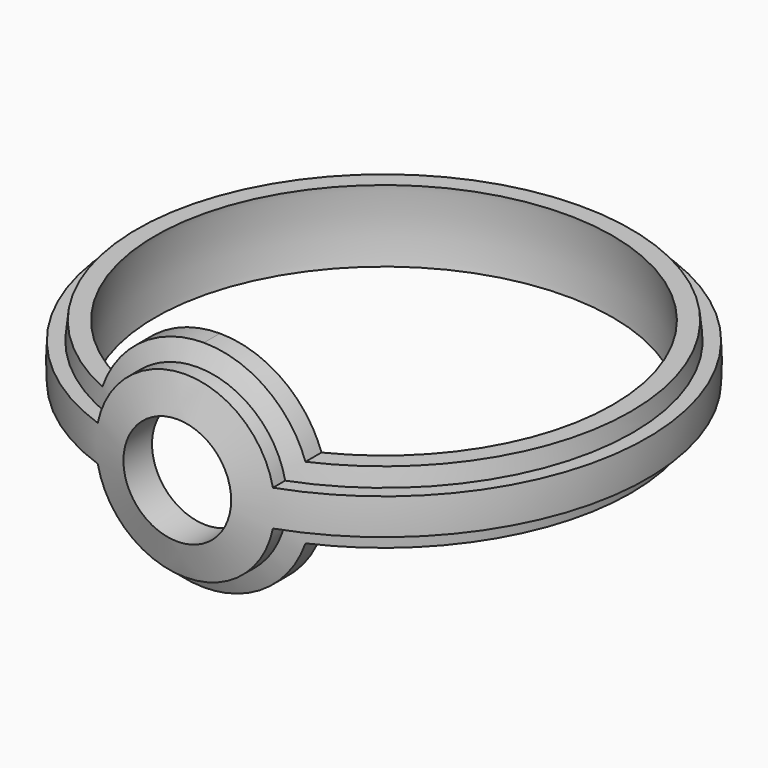
from build123d import *

# Parameters (mm, degrees)
F3_DEPTH       = 34.751
F3_DEPTH_BACK  = 34.751
F5_ANGLE_BACK  = 30
F5_ANGLE       = 60
F9_R           = 12.45
F10_DEPTH      = 8
F13_R          = 7.5
F14_DEPTH      = 10
F14_DEPTH_BACK = 10


with BuildPart() as f1:
    # F0 (on Front) → F1 (revolve)
    with BuildSketch(Plane.XZ):
        with BuildLine():
            Line((0, -32.25), (0, -34.75))
            ThreePointArc((0, -34.75), (34.75, 0), (0, 34.75))
            Line((0, 34.75), (0, 32.25))
            ThreePointArc((0, 32.25), (32.25, 0), (0, -32.25))
        make_face()
    revolve(axis=Axis((0, 0, 0), (0, 0, 1)))

    # F2 (on Front) → F3 (cut, two sides)
    with BuildSketch(Plane.XZ) as f3_sk:
        with BuildLine():
            ThreePointArc((0, 15), (8.6602540378, 12.2474487139), (14.1421356237, 5))
            Line((14.1421356237, 5), (47.8319227695, 5))
            Line((47.8319227695, 5), (47.8319227695, 37.9324257374))
            Line((47.8319227695, 37.9324257374), (0, 37.9324257374))
            Line((0, 37.9324257374), (0, 15))
        make_face()
        with BuildLine():
            ThreePointArc((-14.1421356237, 5), (-8.6602540378, 12.2474487139), (0, 15))
            Line((0, 15), (0, 37.9324257374))
            Line((0, 37.9324257374), (-47.8319227695, 37.9324257374))
            Line((-47.8319227695, 37.9324257374), (-47.8319227695, 5))
            Line((-47.8319227695, 5), (-14.1421356237, 5))
        make_face()
        with BuildLine():
            Line((-14.1421356237, -5), (-47.8319227695, -5))
            Line((-47.8319227695, -5), (-47.8319227695, -37.9324257374))
            Line((-47.8319227695, -37.9324257374), (0, -37.9324257374))
            Line((0, -37.9324257374), (47.8319227695, -37.9324257374))
            Line((47.8319227695, -37.9324257374), (47.8319227695, -5))
            Line((47.8319227695, -5), (14.1421356237, -5))
            ThreePointArc((14.1421356237, -5), (8.6602540378, -12.2474487139), (0, -15))
            ThreePointArc((0, -15), (-8.6602540378, -12.2474487139), (-14.1421356237, -5))
        make_face()
    extrude(amount=-F3_DEPTH, mode=Mode.SUBTRACT)
    extrude(f3_sk.sketch, amount=F3_DEPTH_BACK, mode=Mode.SUBTRACT)

    # F4 (on Right) → F5 (revolve, cut)
    with BuildSketch(Plane.YZ, mode=Mode.PRIVATE) as f5_sk:
        Polygon((28.549299466, 5), (31.3458529953, 5), (38.3678488433, 5), (38.3678488433, 15), (31.3458529953, 15), (28.549299466, 15), align=None)
        Polygon((38.3678488433, -5), (31.3458529953, -5), (28.549299466, -5), (28.549299466, -15), (31.3458529953, -15), (38.3678488433, -15), align=None)
    revolve(f5_sk.sketch.rotate(Axis((0, 0, 13.6671056971), (0, 0, 1)), -F5_ANGLE_BACK), axis=Axis((0, 0, 13.6671056971), (0, 0, 1)), revolution_arc=F5_ANGLE, mode=Mode.SUBTRACT)

    # F6 (on Front) → F8 (revolve)
    with BuildSketch(Plane.XZ):
        Polygon((36.75, 0), (36.75, 2.5), (33.5848033428, 2.5), (33.5848033428, 0), (33.5848033428, -2.5), (36.75, -2.5), align=None)
    revolve(axis=Axis((0, 0, 0), (0, 0, 1)))

    # F9 (on offset) → F10 (join)
    with BuildSketch(Plane.XZ.offset(31)):
        Circle(F9_R)
    extrude(amount=F10_DEPTH)

    # F11 (on Right) → F12 (revolve, cut)
    with BuildSketch(Plane.YZ):
        with BuildLine():
            ThreePointArc((0, -36.75), (-36.75, 0), (0, 36.75))
            Line((0, 36.75), (0, 45.6979585941))
            ThreePointArc((0, 45.6979585941), (-45.6979585941, 0), (0, -45.6979585941))
            Line((0, -45.6979585941), (0, -36.75))
        make_face()
    revolve(axis=Axis((0, 0, 0), (0, 0, 1)), mode=Mode.SUBTRACT)

    # F13 (on offset) → F14 (cut, two sides)
    with BuildSketch(Plane.XZ.offset(31)) as f14_sk:
        Circle(F13_R)
    extrude(amount=-F14_DEPTH, mode=Mode.SUBTRACT)
    extrude(f14_sk.sketch, amount=F14_DEPTH_BACK, mode=Mode.SUBTRACT)


solid = f1.part
